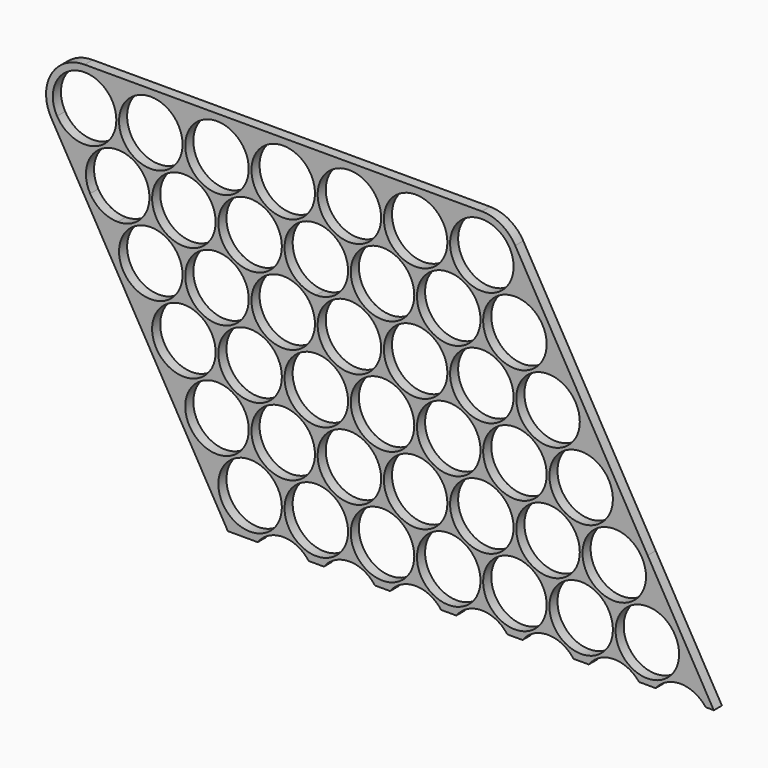
from build123d import *

# Parameters (mm, degrees)
F0_R     = 9.4
F1_DEPTH = 3


with BuildPart() as f1:
    # F0 (on Front) → F1 (new body)
    with BuildSketch(Plane.XZ):
        with BuildLine():
            Line((58.8, 11.4), (0, 11.4))
            ThreePointArc((0, 11.4), (-9.870808, 5.703258), (-9.87645, -5.693483))
            Line((-9.87645, -5.693483), (-0.07645, -22.693483))
            Line((-0.07645, -22.693483), (19.523115, -56.692727))
            Line((19.523115, -56.692727), (29.322897, -73.692349))
            Line((29.322897, -73.692349), (39.122679, -90.691971))
            Line((39.122679, -90.691971), (42.412319, -96.398489))
            Line((42.412319, -96.398489), (48.999129, -96.398489))
            Line((48.999129, -96.398489), (51.248796, -96.398489))
            ThreePointArc((51.248796, -96.398489), (58.798911, -92.598111), (66.349026, -96.398489))
            Line((66.349026, -96.398489), (70.848796, -96.398489))
            ThreePointArc((70.848796, -96.398489), (78.398911, -92.598111), (85.949026, -96.398489))
            Line((85.949026, -96.398489), (90.448796, -96.398489))
            ThreePointArc((90.448796, -96.398489), (97.998911, -92.598111), (105.549026, -96.398489))
            Line((105.549026, -96.398489), (110.048796, -96.398489))
            ThreePointArc((110.048796, -96.398489), (117.598911, -92.598111), (125.149026, -96.398489))
            Line((125.149026, -96.398489), (129.648796, -96.398489))
            ThreePointArc((129.648796, -96.398489), (137.198911, -92.598111), (144.749026, -96.398489))
            Line((144.749026, -96.398489), (149.248796, -96.398489))
            ThreePointArc((149.248796, -96.398489), (156.629951, -92.599629), (164.142879, -96.130732))
            Line((164.142879, -96.130732), (169.05485, -96.130848))
            ThreePointArc((169.05485, -96.130848), (171.704285, -93.854372), (175.002012, -92.702484))
            ThreePointArc((175.002012, -92.702484), (179.831407, -93.247227), (183.743251, -96.131197))
            ThreePointArc((183.743251, -96.131197), (183.801942, -96.205431), (183.859882, -96.280252))
            Line((183.859882, -96.280252), (186.27536, -96.304628))
            Line((186.27536, -96.304628), (176.475578, -79.305006))
            Line((176.475578, -79.305006), (166.675796, -62.305384))
            Line((166.675796, -62.305384), (127.47645, 5.693483))
            ThreePointArc((127.47645, 5.693483), (123.303258, 9.870808), (117.6, 11.4))
            Line((117.6, 11.4), (98, 11.4))
            Line((98, 11.4), (58.8, 11.4))
        make_face()
        with Locations((48.999129, -84.998489)):
            Circle(F0_R, mode=Mode.SUBTRACT)
        with Locations((68.599129, -84.998489)):
            Circle(F0_R, mode=Mode.SUBTRACT)
        with Locations((29.399564, -50.999244)):
            Circle(F0_R, mode=Mode.SUBTRACT)
        with Locations((39.199347, -67.998866)):
            Circle(F0_R, mode=Mode.SUBTRACT)
        with Locations((58.799347, -67.998866)):
            Circle(F0_R, mode=Mode.SUBTRACT)
        with Locations((78.399347, -67.998866)):
            Circle(F0_R, mode=Mode.SUBTRACT)
        with Locations((48.999564, -50.999244)):
            Circle(F0_R, mode=Mode.SUBTRACT)
        with Locations((68.599564, -50.999244)):
            Circle(F0_R, mode=Mode.SUBTRACT)
        with Locations((88.199129, -84.998489)):
            Circle(F0_R, mode=Mode.SUBTRACT)
        with Locations((107.799129, -84.998489)):
            Circle(F0_R, mode=Mode.SUBTRACT)
        with Locations((127.399129, -84.998489)):
            Circle(F0_R, mode=Mode.SUBTRACT)
        with Locations((146.999129, -84.998489)):
            Circle(F0_R, mode=Mode.SUBTRACT)
        with Locations((166.599129, -84.998489)):
            Circle(F0_R, mode=Mode.SUBTRACT)
        with Locations((97.999347, -67.998866)):
            Circle(F0_R, mode=Mode.SUBTRACT)
        with Locations((117.599347, -67.998866)):
            Circle(F0_R, mode=Mode.SUBTRACT)
        with Locations((88.199564, -50.999244)):
            Circle(F0_R, mode=Mode.SUBTRACT)
        with Locations((107.799564, -50.999244)):
            Circle(F0_R, mode=Mode.SUBTRACT)
        with Locations((127.399564, -50.999244)):
            Circle(F0_R, mode=Mode.SUBTRACT)
        with Locations((137.199347, -67.998866)):
            Circle(F0_R, mode=Mode.SUBTRACT)
        with Locations((156.799347, -67.998866)):
            Circle(F0_R, mode=Mode.SUBTRACT)
        with Locations((146.999564, -50.999244)):
            Circle(F0_R, mode=Mode.SUBTRACT)
        with Locations((19.599782, -33.999622)):
            Circle(F0_R, mode=Mode.SUBTRACT)
        with BuildLine():
            ThreePointArc((1.656261, -21.694626), (7.370097, -7.919495), (19.2, -17))
            ThreePointArc((19.2, -17), (16.446804, -23.646804), (9.8, -26.4))
            ThreePointArc((9.8, -26.4), (5.097314, -25.139087), (1.656261, -21.694626))
        make_face(mode=Mode.SUBTRACT)
        with Locations((29.4, -17)):
            Circle(F0_R, mode=Mode.SUBTRACT)
        with Locations((39.199782, -33.999622)):
            Circle(F0_R, mode=Mode.SUBTRACT)
        with Locations((58.799782, -33.999622)):
            Circle(F0_R, mode=Mode.SUBTRACT)
        with Locations((78.399782, -33.999622)):
            Circle(F0_R, mode=Mode.SUBTRACT)
        with Locations((49, -17)):
            Circle(F0_R, mode=Mode.SUBTRACT)
        with BuildLine():
            ThreePointArc((76.743739, -12.305374), (77.680505, -14.570097), (78, -17))
            ThreePointArc((78, -17), (75.246804, -23.646804), (68.6, -26.4))
            ThreePointArc((68.6, -26.4), (60.460913, -12.297314), (76.743739, -12.305374))
        make_face(mode=Mode.SUBTRACT)
        with BuildLine():
            ThreePointArc((0, 9.4), (6.646804, 6.646804), (9.4, 0))
            ThreePointArc((9.4, 0), (2.429903, -9.080505), (-8.143739, -4.694626))
            ThreePointArc((-8.143739, -4.694626), (-8.139087, 4.702686), (0, 9.4))
        make_face(mode=Mode.SUBTRACT)
        with Locations((19.6, 0)):
            Circle(F0_R, mode=Mode.SUBTRACT)
        with Locations((39.2, 0)):
            Circle(F0_R, mode=Mode.SUBTRACT)
        with BuildLine():
            ThreePointArc((66.943739, 4.694626), (67.880505, 2.429903), (68.2, 0))
            ThreePointArc((68.2, 0), (52.153196, -6.646804), (58.8, 9.4))
            ThreePointArc((58.8, 9.4), (63.502686, 8.139087), (66.943739, 4.694626))
        make_face(mode=Mode.SUBTRACT)
        with Locations((78.4, 0)):
            Circle(F0_R, mode=Mode.SUBTRACT)
        with Locations((97.999782, -33.999622)):
            Circle(F0_R, mode=Mode.SUBTRACT)
        with Locations((117.599782, -33.999622)):
            Circle(F0_R, mode=Mode.SUBTRACT)
        with Locations((88.2, -17)):
            Circle(F0_R, mode=Mode.SUBTRACT)
        with Locations((107.8, -17)):
            Circle(F0_R, mode=Mode.SUBTRACT)
        with Locations((127.4, -17)):
            Circle(F0_R, mode=Mode.SUBTRACT)
        with Locations((137.199782, -33.999622)):
            Circle(F0_R, mode=Mode.SUBTRACT)
        with Locations((98, 0)):
            Circle(F0_R, mode=Mode.SUBTRACT)
        with Locations((117.6, 0)):
            Circle(F0_R, mode=Mode.SUBTRACT)
        with BuildLine():
            Line((58.8, 11.4), (0, 11.4))
            ThreePointArc((0, 11.4), (-9.870808, 5.703258), (-9.87645, -5.693483))
            Line((-9.87645, -5.693483), (-0.07645, -22.693483))
            Line((-0.07645, -22.693483), (19.523115, -56.692727))
            Line((19.523115, -56.692727), (29.322897, -73.692349))
            Line((29.322897, -73.692349), (39.122679, -90.691971))
            Line((39.122679, -90.691971), (42.412319, -96.398489))
            Line((42.412319, -96.398489), (48.999129, -96.398489))
            Line((48.999129, -96.398489), (51.248796, -96.398489))
            ThreePointArc((51.248796, -96.398489), (58.798911, -92.598111), (66.349026, -96.398489))
            Line((66.349026, -96.398489), (70.848796, -96.398489))
            ThreePointArc((70.848796, -96.398489), (78.398911, -92.598111), (85.949026, -96.398489))
            Line((85.949026, -96.398489), (90.448796, -96.398489))
            ThreePointArc((90.448796, -96.398489), (97.998911, -92.598111), (105.549026, -96.398489))
            Line((105.549026, -96.398489), (110.048796, -96.398489))
            ThreePointArc((110.048796, -96.398489), (117.598911, -92.598111), (125.149026, -96.398489))
            Line((125.149026, -96.398489), (129.648796, -96.398489))
            ThreePointArc((129.648796, -96.398489), (137.198911, -92.598111), (144.749026, -96.398489))
            Line((144.749026, -96.398489), (149.248796, -96.398489))
            ThreePointArc((149.248796, -96.398489), (156.629951, -92.599629), (164.142879, -96.130732))
            Line((164.142879, -96.130732), (169.05485, -96.130848))
            ThreePointArc((169.05485, -96.130848), (171.704285, -93.854372), (175.002012, -92.702484))
            ThreePointArc((175.002012, -92.702484), (179.831407, -93.247227), (183.743251, -96.131197))
            ThreePointArc((183.743251, -96.131197), (183.801942, -96.205431), (183.859882, -96.280252))
            Line((183.859882, -96.280252), (186.27536, -96.304628))
            Line((186.27536, -96.304628), (176.475578, -79.305006))
            Line((176.475578, -79.305006), (166.675796, -62.305384))
            Line((166.675796, -62.305384), (127.47645, 5.693483))
            ThreePointArc((127.47645, 5.693483), (123.303258, 9.870808), (117.6, 11.4))
            Line((117.6, 11.4), (98, 11.4))
            Line((98, 11.4), (58.8, 11.4))
        make_face()
        with Locations((48.999129, -84.998489)):
            Circle(F0_R, mode=Mode.SUBTRACT)
        with Locations((68.599129, -84.998489)):
            Circle(F0_R, mode=Mode.SUBTRACT)
        with Locations((29.399564, -50.999244)):
            Circle(F0_R, mode=Mode.SUBTRACT)
        with Locations((39.199347, -67.998866)):
            Circle(F0_R, mode=Mode.SUBTRACT)
        with Locations((58.799347, -67.998866)):
            Circle(F0_R, mode=Mode.SUBTRACT)
        with Locations((78.399347, -67.998866)):
            Circle(F0_R, mode=Mode.SUBTRACT)
        with Locations((48.999564, -50.999244)):
            Circle(F0_R, mode=Mode.SUBTRACT)
        with Locations((68.599564, -50.999244)):
            Circle(F0_R, mode=Mode.SUBTRACT)
        with Locations((88.199129, -84.998489)):
            Circle(F0_R, mode=Mode.SUBTRACT)
        with Locations((107.799129, -84.998489)):
            Circle(F0_R, mode=Mode.SUBTRACT)
        with Locations((127.399129, -84.998489)):
            Circle(F0_R, mode=Mode.SUBTRACT)
        with Locations((146.999129, -84.998489)):
            Circle(F0_R, mode=Mode.SUBTRACT)
        with Locations((166.599129, -84.998489)):
            Circle(F0_R, mode=Mode.SUBTRACT)
        with Locations((97.999347, -67.998866)):
            Circle(F0_R, mode=Mode.SUBTRACT)
        with Locations((117.599347, -67.998866)):
            Circle(F0_R, mode=Mode.SUBTRACT)
        with Locations((88.199564, -50.999244)):
            Circle(F0_R, mode=Mode.SUBTRACT)
        with Locations((107.799564, -50.999244)):
            Circle(F0_R, mode=Mode.SUBTRACT)
        with Locations((127.399564, -50.999244)):
            Circle(F0_R, mode=Mode.SUBTRACT)
        with Locations((137.199347, -67.998866)):
            Circle(F0_R, mode=Mode.SUBTRACT)
        with Locations((156.799347, -67.998866)):
            Circle(F0_R, mode=Mode.SUBTRACT)
        with Locations((146.999564, -50.999244)):
            Circle(F0_R, mode=Mode.SUBTRACT)
        with Locations((19.599782, -33.999622)):
            Circle(F0_R, mode=Mode.SUBTRACT)
        with BuildLine():
            ThreePointArc((1.656261, -21.694626), (7.370097, -7.919495), (19.2, -17))
            ThreePointArc((19.2, -17), (16.446804, -23.646804), (9.8, -26.4))
            ThreePointArc((9.8, -26.4), (5.097314, -25.139087), (1.656261, -21.694626))
        make_face(mode=Mode.SUBTRACT)
        with Locations((29.4, -17)):
            Circle(F0_R, mode=Mode.SUBTRACT)
        with Locations((39.199782, -33.999622)):
            Circle(F0_R, mode=Mode.SUBTRACT)
        with Locations((58.799782, -33.999622)):
            Circle(F0_R, mode=Mode.SUBTRACT)
        with Locations((78.399782, -33.999622)):
            Circle(F0_R, mode=Mode.SUBTRACT)
        with Locations((49, -17)):
            Circle(F0_R, mode=Mode.SUBTRACT)
        with BuildLine():
            ThreePointArc((76.743739, -12.305374), (77.680505, -14.570097), (78, -17))
            ThreePointArc((78, -17), (75.246804, -23.646804), (68.6, -26.4))
            ThreePointArc((68.6, -26.4), (60.460913, -12.297314), (76.743739, -12.305374))
        make_face(mode=Mode.SUBTRACT)
        with BuildLine():
            ThreePointArc((0, 9.4), (6.646804, 6.646804), (9.4, 0))
            ThreePointArc((9.4, 0), (2.429903, -9.080505), (-8.143739, -4.694626))
            ThreePointArc((-8.143739, -4.694626), (-8.139087, 4.702686), (0, 9.4))
        make_face(mode=Mode.SUBTRACT)
        with Locations((19.6, 0)):
            Circle(F0_R, mode=Mode.SUBTRACT)
        with Locations((39.2, 0)):
            Circle(F0_R, mode=Mode.SUBTRACT)
        with BuildLine():
            ThreePointArc((66.943739, 4.694626), (67.880505, 2.429903), (68.2, 0))
            ThreePointArc((68.2, 0), (52.153196, -6.646804), (58.8, 9.4))
            ThreePointArc((58.8, 9.4), (63.502686, 8.139087), (66.943739, 4.694626))
        make_face(mode=Mode.SUBTRACT)
        with Locations((78.4, 0)):
            Circle(F0_R, mode=Mode.SUBTRACT)
        with Locations((97.999782, -33.999622)):
            Circle(F0_R, mode=Mode.SUBTRACT)
        with Locations((117.599782, -33.999622)):
            Circle(F0_R, mode=Mode.SUBTRACT)
        with Locations((88.2, -17)):
            Circle(F0_R, mode=Mode.SUBTRACT)
        with Locations((107.8, -17)):
            Circle(F0_R, mode=Mode.SUBTRACT)
        with Locations((127.4, -17)):
            Circle(F0_R, mode=Mode.SUBTRACT)
        with Locations((137.199782, -33.999622)):
            Circle(F0_R, mode=Mode.SUBTRACT)
        with Locations((98, 0)):
            Circle(F0_R, mode=Mode.SUBTRACT)
        with Locations((117.6, 0)):
            Circle(F0_R, mode=Mode.SUBTRACT)
    extrude(amount=F1_DEPTH)


solid = f1.part
